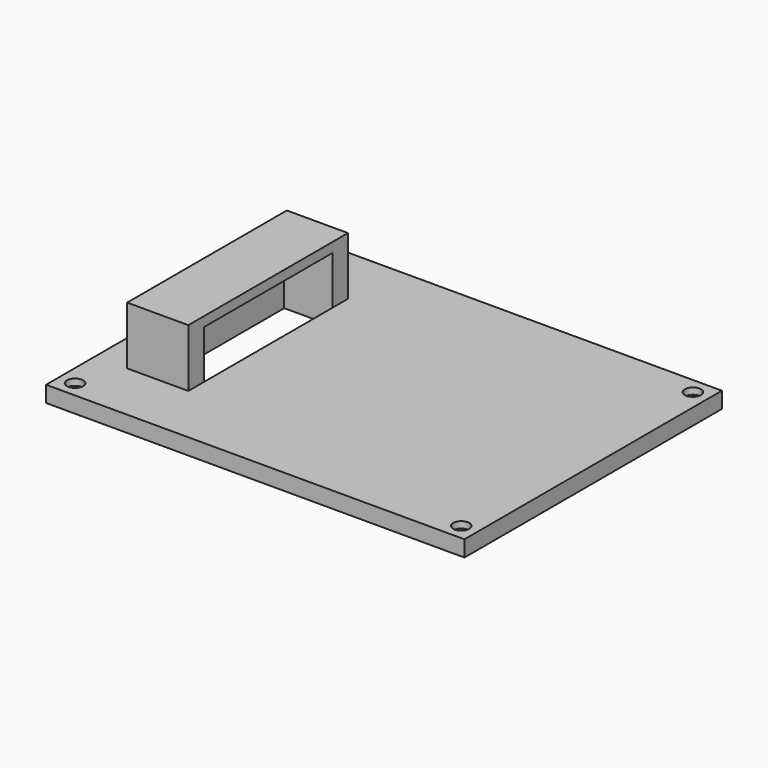
from build123d import *

# Parameters (mm, degrees)
SKETCH082_W     = 130
SKETCH082_H     = 100
PAD013_DEPTH    = 5
SKETCH083_W     = 19
SKETCH083_H     = 62
PAD014_DEPTH    = 18
SKETCH084_W     = 15
SKETCH084_H     = 50
POCKET068_DEPTH = 20
SKETCH085_R     = 1.5
POCKET069_DEPTH = 5
SKETCH086_R     = 2.5
POCKET070_DEPTH = 2


with BuildPart() as part:
    # Sketch082 → Pad013 (new body)
    with BuildSketch(Plane.XY):
        with Locations((65, 50)):
            Rectangle(SKETCH082_W, SKETCH082_H)
    extrude(amount=PAD013_DEPTH)

    # Sketch083 (on Face6 of Pad013) → Pad014 (join)
    with BuildSketch(Plane.XY.offset(5)):
        with Locations((19.5, 50)):
            Rectangle(SKETCH083_W, SKETCH083_H)
    extrude(amount=PAD014_DEPTH)

    # Sketch084 (on Face4 of Pad014) → Pocket068 (cut)
    with BuildSketch(Plane(origin=(0, 0, 0), x_dir=(1, 0, 0), z_dir=(0, 0, -1))):
        with Locations((21.5, -50)):
            Rectangle(SKETCH084_W, SKETCH084_H)
    extrude(amount=-POCKET068_DEPTH, mode=Mode.SUBTRACT)

    # Sketch085 (on Face4 of Pocket068) → Pocket069 (cut)
    with BuildSketch(Plane(origin=(0, 0, 0), x_dir=(1, 0, 0), z_dir=(0, 0, -1))):
        with Locations((5, -5)):
            Circle(SKETCH085_R)
        with Locations((125, -5)):
            Circle(SKETCH085_R)
        with Locations((5, -95)):
            Circle(SKETCH085_R)
        with Locations((125, -95)):
            Circle(SKETCH085_R)
    extrude(amount=-POCKET069_DEPTH, mode=Mode.SUBTRACT)

    # Sketch086 (on Face5 of Pocket069) → Pocket070 (cut)
    with BuildSketch(Plane.XY.offset(5)):
        with Locations((5, 95)):
            Circle(SKETCH086_R)
        with Locations((5, 5)):
            Circle(SKETCH086_R)
        with Locations((125, 5)):
            Circle(SKETCH086_R)
        with Locations((125, 95)):
            Circle(SKETCH086_R)
    extrude(amount=-POCKET070_DEPTH, mode=Mode.SUBTRACT)


with BuildPart() as part_1:
    # Body013 placement: moved
    add(part.part.moved(Location((0, 0, 45))))


solid = part_1.part
